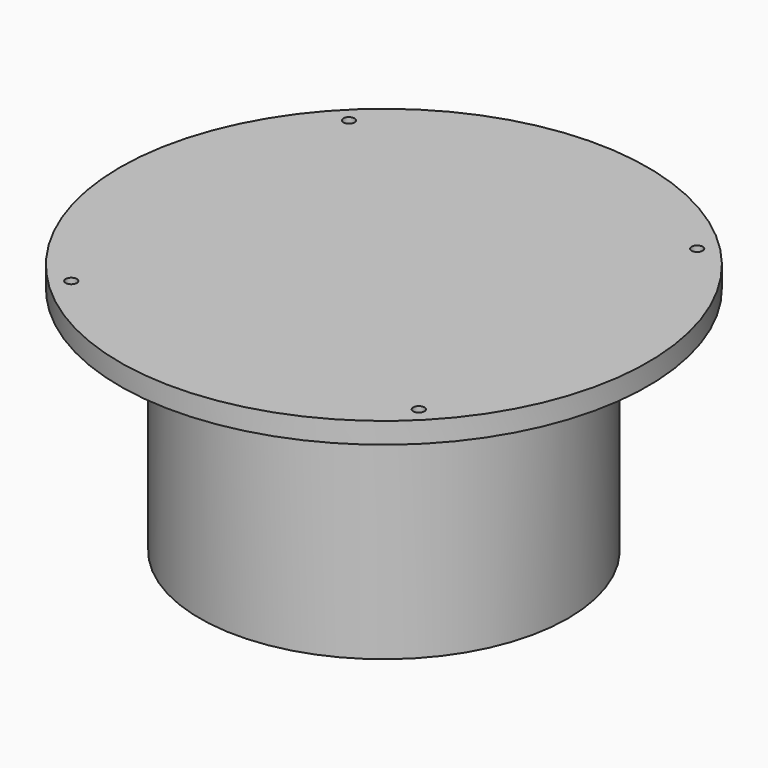
from build123d import *

# Parameters (mm, degrees)
F0_W           = 6.798369
F0_H           = 6.798369
F0_W_2         = 7.405656
F0_H_2         = 7.405656
F0_W_3         = 7.433599
F0_H_3         = 7.433599
F0_W_4         = 7.622234
F0_H_4         = 7.622235
F0_W_5         = 7.339932
F0_H_5         = 7.339932
F2_SIZE        = 5.08
F3_SIZE        = 5.08
F4_R           = 5.08
F7_D           = 6.35
F7_CSINK_D     = 12.7
F7_CSINK_ANGLE = 90
F8_R           = 5.08


with BuildPart() as f1:
    # F0 (on Front) → F1 (revolve)
    with BuildSketch(Plane.XZ):
        Polygon((-65.516091, 0), (-51.718292, 0), (-51.718292, 51.718292), (-32.323933, 51.718292), (-32.323933, 77.577439), (-44.875035, 77.577439), (-44.875035, 91.161532), (0, 91.161532), (0, 131.179577), (0, 143.122849), (-150.327997, 143.122849), (-150.327997, 131.179577), (-104.88727, 131.179577), (-104.88727, 0), align=None)
        with Locations((-70.299634, 10.931312)):
            Rectangle(F0_W, F0_H, mode=Mode.SUBTRACT)
        with Locations((-70.299634, 24.901313)):
            Rectangle(F0_W_2, F0_H_2, mode=Mode.SUBTRACT)
        with Locations((-70.299634, 38.871313)):
            Rectangle(F0_W_2, F0_H_2, mode=Mode.SUBTRACT)
        with Locations((-60.103797, 51.828418)):
            Rectangle(F0_W_3, F0_H_3, mode=Mode.SUBTRACT)
        with Locations((-40.06014, 64.785522)):
            Rectangle(F0_W_4, F0_H_4, mode=Mode.SUBTRACT)
        with Locations((-54.457691, 77.742626)):
            Rectangle(F0_W_5, F0_H_5, mode=Mode.SUBTRACT)
        with Locations((-54.457691, 90.69973)):
            Rectangle(F0_W_5, F0_H_5, mode=Mode.SUBTRACT)
    revolve(axis=Axis((0, 0, 81.092189), (0, 0, 1)))

    # F2
    f2_edges = [f1.edges().sort_by_distance(p)[0] for p in [
        (51.718292, 0, 0),
    ]]
    chamfer(f2_edges, length=F2_SIZE)

    # F3
    f3_edges = [f1.edges().sort_by_distance(p)[0] for p in [
        (32.323933, 0, 51.718292),
        (32.323933, 0, 77.577439),
    ]]
    chamfer(f3_edges, length=F3_SIZE)

    # F4
    f4_edges = [f1.edges().sort_by_distance(p)[0] for p in [
        (51.718292, 0, 51.718292),
    ]]
    fillet(f4_edges, radius=F4_R)

    # F7 (through all)
    with Locations(Plane(origin=(0, 0, 131.179577), x_dir=(1, 0, 0), z_dir=(0, 0, -1))):
        with Locations((-98.854152, 98.957022), (99.06, 98.957022), (99.06, -99.163085), (-99.06, -98.957022)):
            CounterSinkHole(F7_D / 2, F7_CSINK_D / 2, counter_sink_angle=F7_CSINK_ANGLE)

    # F8
    f8_edges = [f1.edges().sort_by_distance(p)[0] for p in [
        (104.88727, 0, 131.179577),
    ]]
    fillet(f8_edges, radius=F8_R)


solid = f1.part
